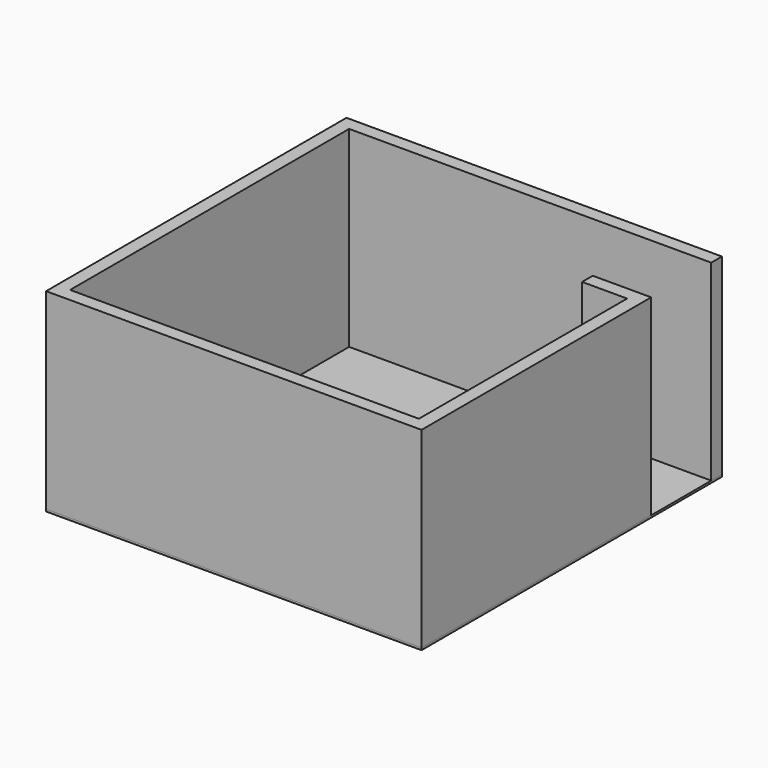
from build123d import *

# Parameters (mm, degrees)
F0_W     = 4500
F0_H     = 4500
F1_DEPTH = 25
F3_DEPTH = 2300
F4_W     = 540
F4_H     = 3120
F5_DEPTH = 100


with BuildPart() as f1:
    # F0 (on Top) → F1 (new body)
    with BuildSketch(Plane.XY):
        with Locations((0.524938, 402.978641)):
            Rectangle(F0_W, F0_H)
    extrude(amount=F1_DEPTH)


with BuildPart() as f3:
    # F2 (on face) → F3 (new body)
    with BuildSketch(Plane.XY.offset(25)):
        Polygon((2250.524938, 2492.978641), (2250.524938, 2652.978641), (-2249.475062, 2652.978641), (-2249.475062, -1847.021359), (2250.524938, -1847.021359), (2250.524938, 1592.978641), (1550.524938, 1592.978641), (1550.524938, 1432.978641), (2090.524938, 1432.978641), (2090.524938, -1687.021359), (-2089.475062, -1687.021359), (-2089.475062, 2492.978641), align=None)
    extrude(amount=F3_DEPTH)


with BuildPart() as f5:
    # F4 (on face) → F5 (new body)
    with BuildSketch(Plane.XY.offset(25)):
        with Locations((1820.524938, -127.021359)):
            Rectangle(F4_W, F4_H)
    extrude(amount=F5_DEPTH)


solid = Compound([f1.part, f3.part, f5.part])
